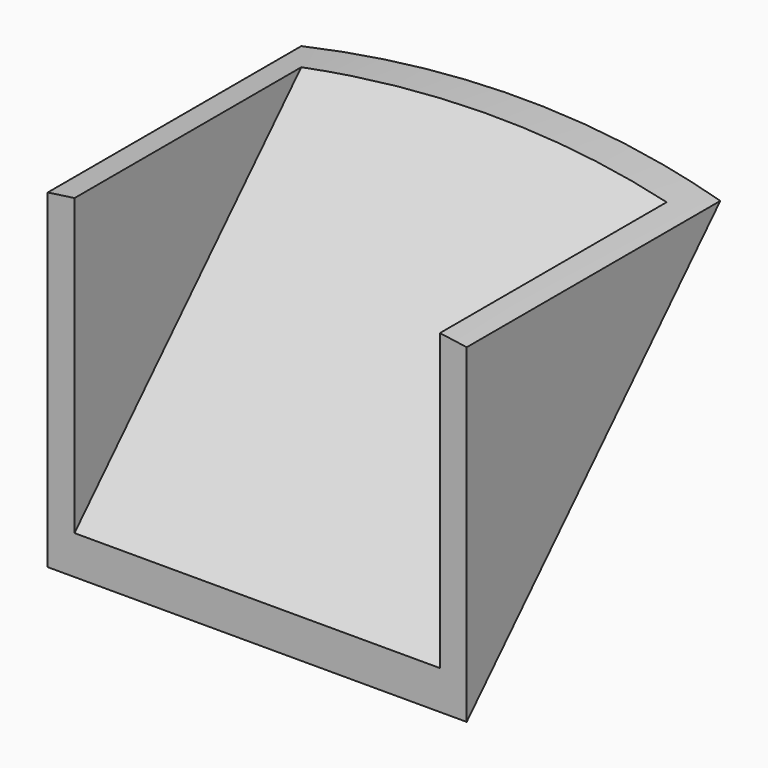
from build123d import *

# Parameters (mm, degrees)
F1_DEPTH      = 19.84375
F1_DEPTH_BACK = 19.84375
F2_START      = 17.30375
F2_DEPTH      = 2.54
F3_START      = -17.30375
F3_DEPTH      = 2.54
F4_R          = 159.2477786005
F4_R_2        = 133.35
F5_DEPTH      = 127


with BuildPart() as f1:
    # F0 (on Right) → F1 (new body, two sides)
    with BuildSketch(Plane.YZ) as f1_sk:
        Polygon((31.5376230345, 32.8083333333), (0, 0), (0, -3.6651832175), (35.060848841, 32.8083333333), align=None)
    extrude(amount=F1_DEPTH)
    extrude(f1_sk.sketch, amount=-F1_DEPTH_BACK)

    # F0 (on Right) → F2 (join)
    with BuildSketch(Plane.YZ.offset(F2_START)):
        Polygon((0, 32.8083333333), (0, 0), (31.5376230345, 32.8083333333), align=None)
    extrude(amount=F2_DEPTH)

    # F0 (on Right) → F3 (join)
    with BuildSketch(Plane.YZ.offset(F3_START)):
        Polygon((0, 32.8083333333), (0, 0), (31.5376230345, 32.8083333333), align=None)
    extrude(amount=-F3_DEPTH)

    # F4 (on Front) → F5 (cut)
    with BuildSketch(Plane.XZ):
        with Locations((0, -104.29066769)):
            Circle(F4_R)
        with Locations((0, -104.29066769)):
            Circle(F4_R_2, mode=Mode.SUBTRACT)
    extrude(amount=-F5_DEPTH, mode=Mode.SUBTRACT)


solid = f1.part
